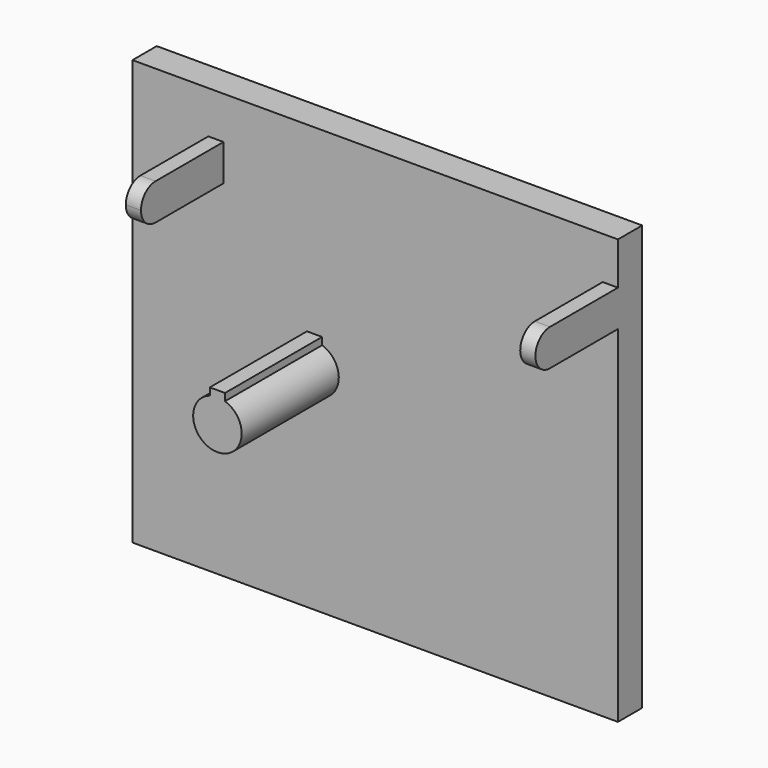
from build123d import *

# Parameters (mm, degrees)
F0_W     = 160
F0_H     = 140
F1_DEPTH = 10
F3_DEPTH = 40
F5_DEPTH = 5
F8_DEPTH = 5


with BuildPart() as f1:
    # F0 (on Front) → F1 (new body)
    with BuildSketch(Plane.XZ):
        with Locations((20, 0)):
            Rectangle(F0_W, F0_H)
    extrude(amount=-F1_DEPTH)

    # F2 (on face) → F3 (join)
    with BuildSketch(Plane.XZ):
        with BuildLine():
            Line((-2.5, 10), (-2.5, 7.5993420768))
            ThreePointArc((-2.5, 7.5993420768), (0, -8), (2.5, 7.5993420768))
            Line((2.5, 7.5993420768), (2.5, 10))
            Line((2.5, 10), (-2.5, 10))
        make_face()
    extrude(amount=F3_DEPTH)

    # F4 (on face) → F5 (join)
    with BuildSketch(Plane.YZ.offset(100)):
        with BuildLine():
            ThreePointArc((-28, 56), (-34, 50), (-28, 44))
            Line((-28, 44), (10, 44))
            Line((10, 44), (10, 56))
            Line((10, 56), (-28, 56))
        make_face()
    extrude(amount=-F5_DEPTH)

    # F7 (on offset) → F8 (join)
    with BuildSketch(Plane.YZ.offset(-35)):
        with BuildLine():
            Line((10, 56), (-28, 56))
            ThreePointArc((-28, 56), (-32.2426406871, 54.2426406871), (-34, 50))
            Line((-34, 50), (10, 50))
            Line((10, 50), (10, 56))
        make_face()
        with BuildLine():
            Line((10, 50), (-34, 50))
            ThreePointArc((-34, 50), (-32.2426406871, 45.7573593129), (-28, 44))
            Line((-28, 44), (10, 44))
            Line((10, 44), (10, 50))
        make_face()
    extrude(amount=F8_DEPTH)


solid = f1.part
